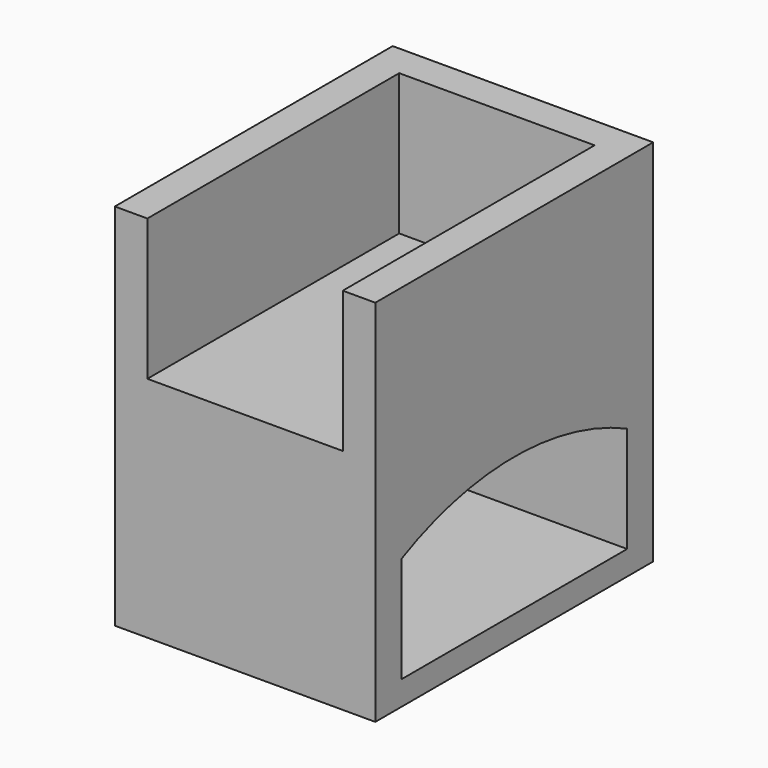
from build123d import *

# Parameters (mm, degrees)
F0_W     = 609.6
F0_H     = 812.8
F1_DEPTH = 914.4
F4_DEPTH = 609.601
F3_W     = 457.2
F3_H     = 330.2
F5_DEPTH = 736.6
F6_DEPTH = 50.8


with BuildPart() as f1:
    # F0 (on Top) → F1 (new body)
    with BuildSketch(Plane.XY):
        Rectangle(F0_W, F0_H)
    extrude(amount=F1_DEPTH)

    # F2 (on face) → F4 (cut, through all)
    with BuildSketch(Plane.YZ.offset(304.8)):
        with BuildLine():
            Line((330.2, 56.8088516593), (330.2, 304.8))
            ThreePointArc((330.2, 304.8), (0, 381), (-330.2, 304.8))
            Line((-330.2, 304.8), (-330.2, 56.8088516593))
            Line((-330.2, 56.8088516593), (330.2, 56.8088516593))
        make_face()
    extrude(amount=-F4_DEPTH, mode=Mode.SUBTRACT)

    # F3 (on face) → F5 (cut)
    with BuildSketch(Plane.XZ.offset(406.4)):
        with Locations((0, 698.5)):
            Rectangle(F3_W, F3_H)
    extrude(amount=-F5_DEPTH, mode=Mode.SUBTRACT)

    # F6 (cut): a face of the model
    f6_faces = [f1.faces().sort_by_distance(p)[0] for p in [
        (0, 0, 914.4),
    ]]
    extrude(f6_faces, amount=-F6_DEPTH, mode=Mode.SUBTRACT)


solid = f1.part
